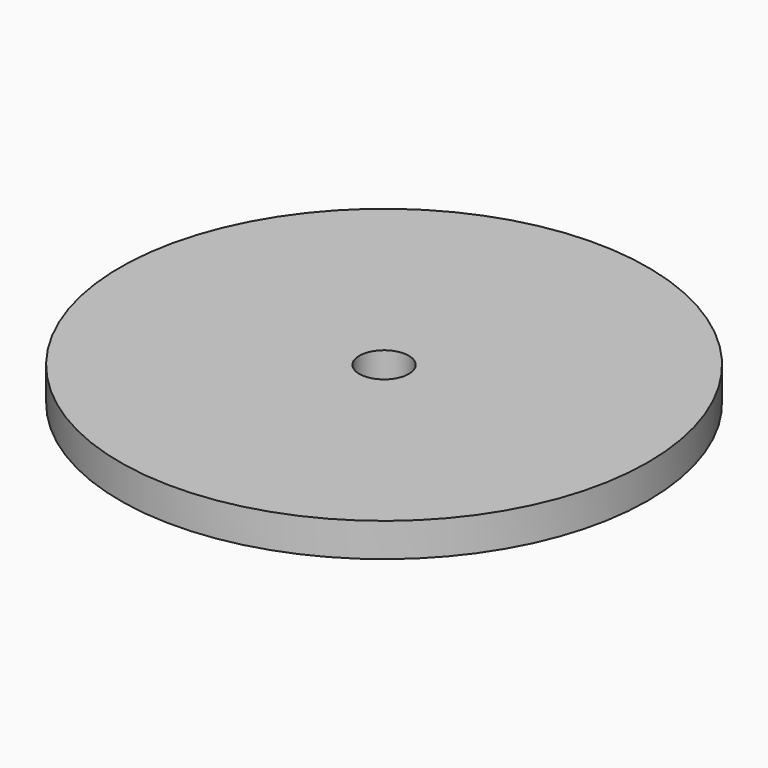
from build123d import *

# Parameters (mm, degrees)
SKETCH_R      = 23.5
SKETCH_R_2    = 2.2
EXTRUDE_DEPTH = 3


with BuildPart() as part:
    # Sketch → Extrude (new body)
    with BuildSketch(Plane.XY):
        Circle(SKETCH_R)
        Circle(SKETCH_R_2, mode=Mode.SUBTRACT)
    extrude(amount=EXTRUDE_DEPTH)


solid = part.part
